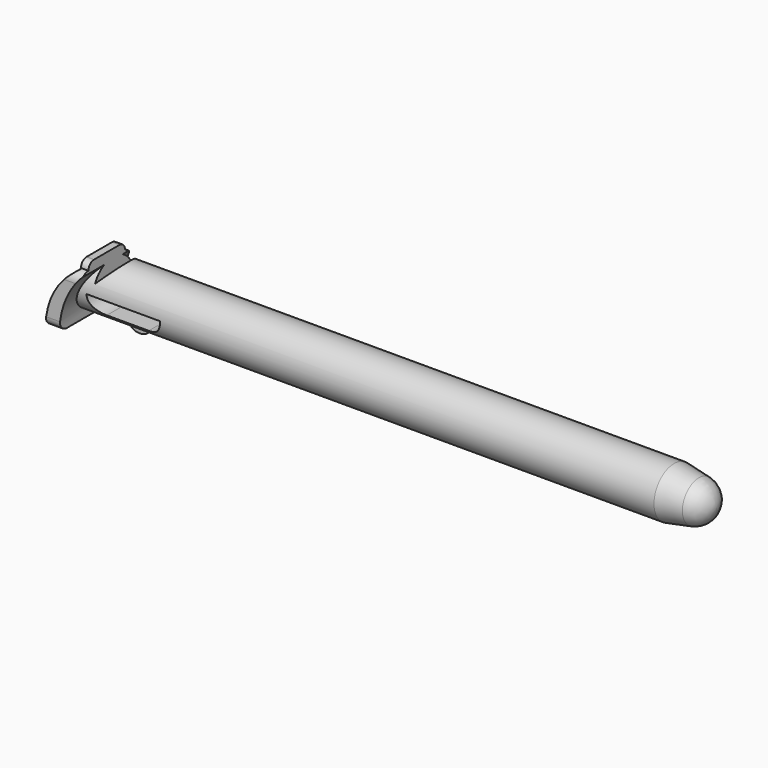
from build123d import *

# Parameters (mm, degrees)
SKETCH_R             = 2.7
PAD_DEPTH            = 68.5
PAD001_DEPTH         = 4.35
PAD001_DEPTH_BACK    = 10
POCKET_DEPTH         = 10
POCKET001_DEPTH      = 10
POCKET002_DEPTH      = 200
SKETCH005_W          = 4.914
SKETCH005_H          = 0.8
PAD002_DEPTH         = 0.75
PAD002_DEPTH_BACK    = 0.25
POCKET003_DEPTH      = 5
PAD003_DEPTH         = 0.5
PAD003_DEPTH_BACK    = 0.5
POCKET004_DEPTH      = 10
POCKET004_DEPTH_BACK = -10


with BuildPart() as part:
    # Sketch → Pad (new body)
    with BuildSketch(Plane.YZ):
        Circle(SKETCH_R)
    extrude(amount=PAD_DEPTH)

    # Sketch001 → Pad001 (join, two sides)
    with BuildSketch(Plane.XZ) as pad001_sk:
        with BuildLine():
            ThreePointArc((3.1, 2.7), (0.818819, -0.006437), (0, -3.45))
            Line((1.5, -3.45), (0, -3.45))
            ThreePointArc((4.1, 2.7), (2.176706, -0.111494), (1.5, -3.45))
            Line((3.1, 2.7), (4.1, 2.7))
        make_face()
    extrude(amount=PAD001_DEPTH)
    extrude(pad001_sk.sketch, amount=-PAD001_DEPTH_BACK)

    # Sketch002 (on Face2 of Pad001) → Pocket (cut)
    with BuildSketch(Plane(origin=(0, 0, 0), x_dir=(0, 1, 0), z_dir=(-1, 0, 0))):
        with BuildLine():
            ThreePointArc((-4.35, -1.7), (-4.057107, -2.407107), (-3.35, -2.7))
            Line((-4.35, -2.7), (-3.35, -2.7))
            Line((-4.35, -1.7), (-4.35, -2.7))
        make_face()
        with BuildLine():
            ThreePointArc((-3.35, 3.45), (-4.057107, 3.157107), (-4.35, 2.45))
            Line((-4.35, 2.45), (-4.35, 3.45))
            Line((-4.35, 3.45), (-3.35, 3.45))
        make_face()
        with BuildLine():
            ThreePointArc((1.564, -2.7), (3.423276, 0.667161), (0.768, 3.45))
            Line((0.768, 3.45), (10, 3.45))
            Line((10, 3.45), (10, -2.7))
            Line((10, -2.7), (1.564, -2.7))
        make_face()
    extrude(amount=-POCKET_DEPTH, mode=Mode.SUBTRACT)

    # Sketch003 (on Face6 of Pad001) → Pocket001 (cut)
    with BuildSketch(Plane(origin=(0, -4.35, 0), x_dir=(0, 0, -1), z_dir=(0, -1, 0))):
        with BuildLine():
            Line((-2.7, 3.1), (-2.7, -1))
            Line((-2.7, -1), (3.45, -1))
            Line((3.45, -1), (3.45, 0))
            ThreePointArc((-2.7, 3.1), (0.006437, 0.818819), (3.45, 0))
        make_face()
    extrude(amount=-POCKET001_DEPTH, mode=Mode.SUBTRACT)

    # Sketch004 (on Face4 of Pocket001) → Pocket002 (cut)
    with BuildSketch(Plane(origin=(0, -4.35, 0), x_dir=(0, 0, -1), z_dir=(0, -1, 0))):
        Polygon((-2.7, 4.175736), (-2.7, 4.551472), (-2.7, 5.4), (-1.1, 3.8), (-1.948528, 3.8), (-2.7, 3.8), align=None)
    extrude(amount=-POCKET002_DEPTH, mode=Mode.SUBTRACT)

    # Sketch005 (on Face6 of Pocket002) → Pad002 (join, two sides)
    with BuildSketch(Plane(origin=(0, 0, 2.7), x_dir=(0, -1, 0), z_dir=(0, 0, 1))) as pad002_sk:
        with Locations((0.893, 3.4)):
            Rectangle(SKETCH005_W, SKETCH005_H)
    extrude(amount=PAD002_DEPTH)
    extrude(pad002_sk.sketch, amount=-PAD002_DEPTH_BACK)

    # Sketch006 (on Face8 of Pad002) → Pocket003 (cut)
    with BuildSketch(Plane(origin=(3, 0, 0), x_dir=(0, 1, 0), z_dir=(-1, 0, 0))):
        with BuildLine():
            ThreePointArc((-3.35, -2.7), (-3.13033, -3.23033), (-2.6, -3.45))
            Line((-3.35, -3.45), (-2.6, -3.45))
            Line((-3.35, -2.7), (-3.35, -3.45))
        make_face()
        with BuildLine():
            ThreePointArc((0.814, -3.45), (1.34433, -3.23033), (1.564, -2.7))
            Line((1.564, -3.45), (1.564, -2.7))
            Line((0.814, -3.45), (1.564, -3.45))
        make_face()
    extrude(amount=-POCKET003_DEPTH, mode=Mode.SUBTRACT)

    # Sketch007 → Pad003 (join, two sides)
    with BuildSketch(Plane.XZ) as pad003_sk:
        with BuildLine():
            add(Edge.make_bspline(
                [(8.025, -2.7), (8.025, -1.617468), (6.525, -2.158734), (5.025, -2.7), (6.525, -3.241266), (8.025, -3.782532), (8.025, -2.7)],
                knots=[0, 0, 0, 2.094395, 2.094395, 4.18879, 4.18879, 6.283185, 6.283185, 6.283185], degree=2, weights=[1, 0.5, 1, 0.5, 1, 0.5, 1]))
        make_face()
    extrude(amount=PAD003_DEPTH)
    extrude(pad003_sk.sketch, amount=-PAD003_DEPTH_BACK)

    # Sketch008 → Pocket004 (cut, two sides)
    with BuildSketch(Plane.XZ) as pocket004_sk:
        with BuildLine():
            Line((4.775, -1.7), (9.275, -1.7))
            ThreePointArc((9.275, -1.7), (10.477082, -1.202082), (10.975, 0))
            Line((3.075, 0), (10.975, 0))
            ThreePointArc((3.075, 0), (3.572918, -1.202082), (4.775, -1.7))
        make_face()
    extrude(amount=-POCKET004_DEPTH, mode=Mode.SUBTRACT)
    extrude(pocket004_sk.sketch, amount=-POCKET004_DEPTH_BACK, mode=Mode.SUBTRACT)

    # Sketch009 → Groove (revolve, cut)
    with BuildSketch(Plane.XZ):
        with BuildLine():
            Line((68.5, 2.7), (64, 2.7))
            Line((64, 2.7), (66.655738, 2.213114))
            ThreePointArc((68.5, 0), (67.978498, 1.440414), (66.655738, 2.213114))
            Line((69.5, 0), (68.5, 0))
            Line((69.5, 2.7), (69.5, 0))
            Line((68.5, 2.7), (69.5, 2.7))
        make_face()
    revolve(axis=Axis((0, 0, 0), (1, 0, 0)), mode=Mode.SUBTRACT)


solid = part.part
